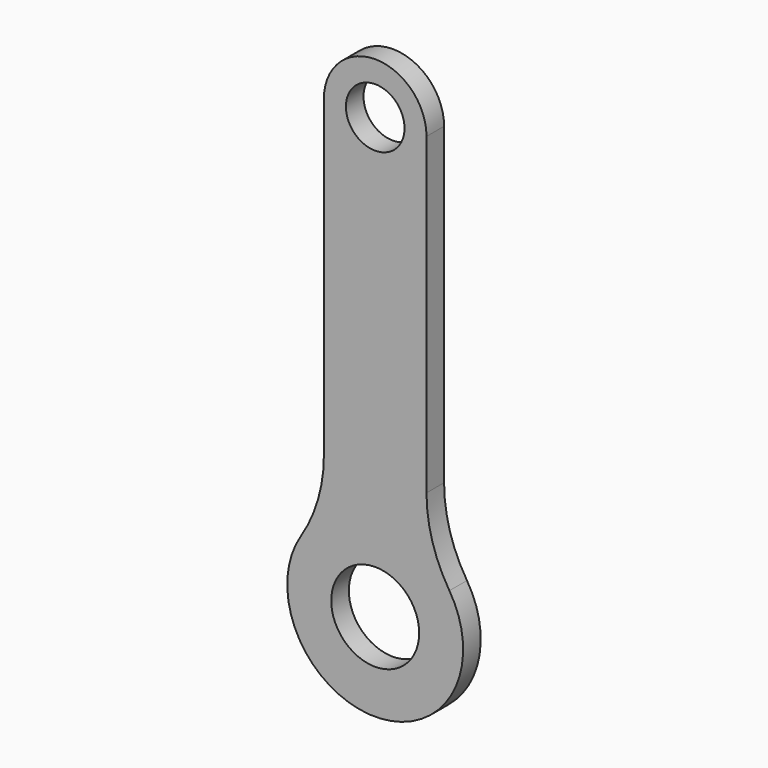
from build123d import *

# Parameters (mm, degrees)
F0_R     = 3
F0_R_2   = 2
F1_DEPTH = 1.5


with BuildPart() as f1:
    # F0 (on Front) → F1 (new body)
    with BuildSketch(Plane.XZ):
        with BuildLine():
            ThreePointArc((3.5, 30), (0, 33.5), (-3.5, 30))
            Line((-3.5, 30), (-3.5, 8.587782))
            ThreePointArc((-3.5, 8.587782), (-3.898568, 5.792697), (-5.0625, 3.220418))
            ThreePointArc((-5.0625, 3.220418), (0, -6), (5.0625, 3.220418))
            ThreePointArc((5.0625, 3.220418), (3.898568, 5.792697), (3.5, 8.587782))
            Line((3.5, 8.587782), (3.5, 30))
        make_face()
        Circle(F0_R, mode=Mode.SUBTRACT)
        with Locations((0, 30)):
            Circle(F0_R_2, mode=Mode.SUBTRACT)
    extrude(amount=F1_DEPTH)


solid = f1.part
